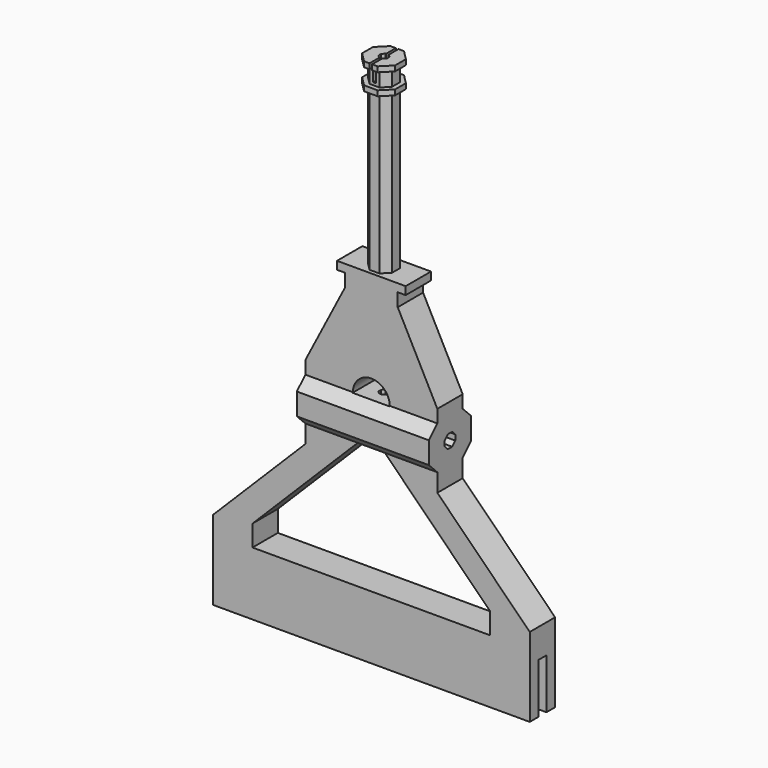
from build123d import *

# Parameters (mm, degrees)
PAD_DEPTH            = 25
PAD_DEPTH_BACK       = 25
PAD001_START         = 5
PAD001_DEPTH         = 115
PAD002_DEPTH         = 6
PAD002_DEPTH_BACK    = 6
POCKET_DEPTH         = 10.001
POCKET_DEPTH_BACK    = 10.001
POCKET001_DEPTH      = 120.001
PAD003_DEPTH         = 2
LINEARPATTERN_COUNT  = 2
LINEARPATTERN_PITCH  = 8
SKETCH006_W          = 15
SKETCH006_H          = 1
POCKET002_DEPTH      = 7
PAD004_DEPTH         = 6
PAD004_DEPTH_BACK    = 6
SKETCH008_W          = 3.8
SKETCH008_H          = 20
POCKET003_DEPTH      = 60.001
POCKET003_DEPTH_BACK = 60.001
POCKET004_DEPTH      = 10.001
POCKET004_DEPTH_BACK = 10.001


with BuildPart() as part:
    # Sketch → Pad (new body, two sides)
    with BuildSketch(Plane.YZ) as pad_sk:
        Polygon((10, -4.142136), (10, 4.142136), (4.142136, 10), (-4.142136, 10), (-10, 4.142136), (-10, -4.142136), (-4.142136, -10), (4.142136, -10), align=None)
        Polygon((2.5, 1.035534), (1.035534, 2.5), (-1.035534, 2.5), (-2.5, 1.035534), (-2.5, -1.035534), (-1.035534, -2.5), (1.035534, -2.5), (2.5, -1.035534), align=None, mode=Mode.SUBTRACT)
    extrude(amount=PAD_DEPTH)
    extrude(pad_sk.sketch, amount=-PAD_DEPTH_BACK)

    # Sketch001 → Pad001 (join)
    with BuildSketch(Plane.XY.offset(PAD001_START)):
        Polygon((4.5, -1.863961), (4.5, 1.863961), (1.863961, 4.5), (-1.863961, 4.5), (-4.5, 1.863961), (-4.5, -1.863961), (-1.863961, -4.5), (1.863961, -4.5), align=None)
        Polygon((1.575, -0.652386), (1.575, 0.652386), (0.652386, 1.575), (-0.652386, 1.575), (-1.575, 0.652386), (-1.575, -0.652386), (-0.652386, -1.575), (0.652386, -1.575), align=None, mode=Mode.SUBTRACT)
    extrude(amount=PAD001_DEPTH)

    # Sketch002 → Pad002 (join, two sides)
    with BuildSketch(Plane.XZ) as pad002_sk:
        Polygon((-25, 8), (25, 8), (25, 13), (10, 42), (10, 47), (13, 47), (13, 50), (-13, 50), (-13, 47), (-10, 47), (-10, 42), (-25, 13), align=None)
    extrude(amount=PAD002_DEPTH)
    extrude(pad002_sk.sketch, amount=-PAD002_DEPTH_BACK)

    # Sketch003 → Pocket (cut, two sides)
    with BuildSketch(Plane.XZ) as pocket_sk:
        with BuildLine():
            ThreePointArc((7, 8), (0, 15), (-7, 8))
            Line((-7, 8), (7, 8))
        make_face()
    extrude(amount=-POCKET_DEPTH, mode=Mode.SUBTRACT)
    extrude(pocket_sk.sketch, amount=POCKET_DEPTH_BACK, mode=Mode.SUBTRACT)

    # Sketch004 → Pocket001 (cut, through all)
    with BuildSketch(Plane.XY):
        Polygon((1.575, -0.652386), (1.575, 0.652386), (0.652386, 1.575), (-0.652386, 1.575), (-1.575, 0.652386), (-1.575, -0.652386), (-0.652386, -1.575), (0.652386, -1.575), align=None)
    extrude(amount=POCKET001_DEPTH, mode=Mode.SUBTRACT)

    # Sketch005 (on Face68 of Pocket001) → Pad003 (join)
    with BuildSketch(Plane(origin=(0, 0, 120), x_dir=(0, -1, 0), z_dir=(0, 0, 1))):
        Polygon((6.236187, -2.583113), (6.236187, 2.583113), (2.583113, 6.236187), (-2.583113, 6.236187), (-6.236187, 2.583113), (-6.236187, -2.583113), (-2.583113, -6.236187), (2.583113, -6.236187), align=None)
        Polygon((1.339392, -3.233578), (3.233578, -1.339392), (3.233578, 1.339392), (1.339392, 3.233578), (-1.339392, 3.233578), (-3.233578, 1.339392), (-3.233578, -1.339392), (-1.339392, -3.233578), align=None, mode=Mode.SUBTRACT)
    pad003 = extrude(amount=-PAD003_DEPTH)

    # LinearPattern: Pad003 ×2
    with Locations(*[(0, 0, -i * LINEARPATTERN_PITCH) for i in range(1, LINEARPATTERN_COUNT)]):
        add(pad003)

    # Sketch006 (on Face80 of LinearPattern) → Pocket002 (cut)
    with BuildSketch(Plane(origin=(0, 0, 120), x_dir=(0, -1, 0), z_dir=(0, 0, 1))):
        Rectangle(SKETCH006_W, SKETCH006_H)
    extrude(amount=-POCKET002_DEPTH, mode=Mode.SUBTRACT)

    # Sketch007 → Pad004 (join, two sides)
    with BuildSketch(Plane.XZ) as pad004_sk:
        Polygon((-25, -5), (25, -5), (25, -15), (60, -50), (60, -80), (-60, -80), (-60, -50), (-25, -15), align=None)
    extrude(amount=PAD004_DEPTH)
    extrude(pad004_sk.sketch, amount=-PAD004_DEPTH_BACK)

    # Sketch008 → Pocket003 (cut, two sides)
    with BuildSketch(Plane.YZ) as pocket003_sk:
        with Locations((0, -71)):
            Rectangle(SKETCH008_W, SKETCH008_H)
    extrude(amount=-POCKET003_DEPTH, mode=Mode.SUBTRACT)
    extrude(pocket003_sk.sketch, amount=POCKET003_DEPTH_BACK, mode=Mode.SUBTRACT)

    # Sketch009 → Pocket004 (cut, two sides)
    with BuildSketch(Plane.XZ) as pocket004_sk:
        Polygon((-5.142136, -8.142136), (5.142136, -8.142136), (45, -48), (45, -56), (-45, -56), (-45, -48), align=None)
    extrude(amount=-POCKET004_DEPTH, mode=Mode.SUBTRACT)
    extrude(pocket004_sk.sketch, amount=POCKET004_DEPTH_BACK, mode=Mode.SUBTRACT)


solid = part.part
